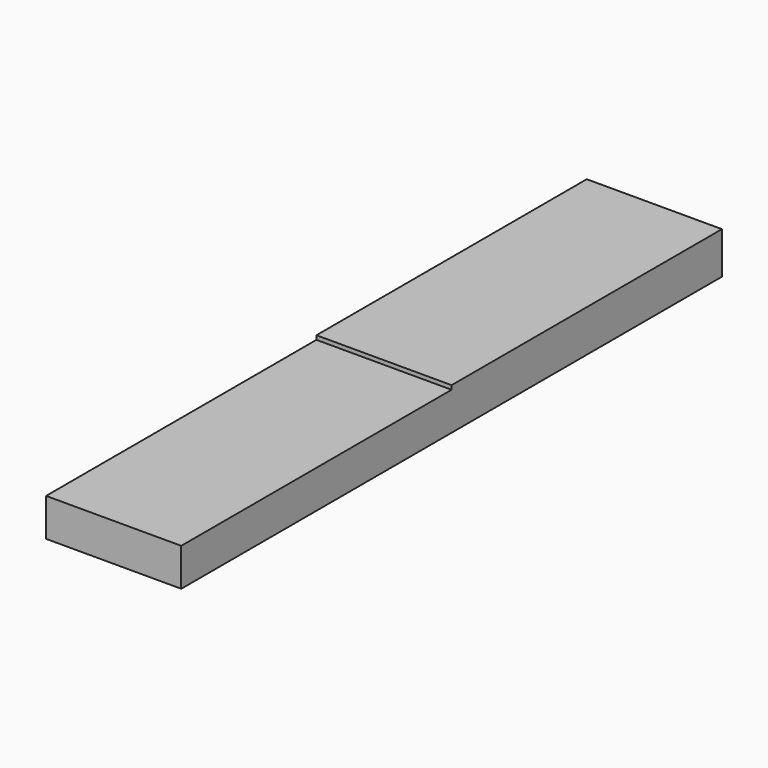
from build123d import *

# Parameters (mm, degrees)
SKETCH_W     = 10
SKETCH_H     = 50
PAD_DEPTH    = 2.8
SKETCH001_W  = 10
SKETCH001_H  = 25
PAD001_DEPTH = 0.3


with BuildPart() as part:
    # Sketch (on XY_Plane of Origin) → Pad (new body)
    with BuildSketch(Plane.XY):
        Rectangle(SKETCH_W, SKETCH_H)
    extrude(amount=PAD_DEPTH)

    # Sketch001 (on Face6 of Pad) → Pad001 (join)
    with BuildSketch(Plane.XY.offset(2.8)):
        with Locations((0, 12.5)):
            Rectangle(SKETCH001_W, SKETCH001_H)
    extrude(amount=PAD001_DEPTH)


solid = part.part
